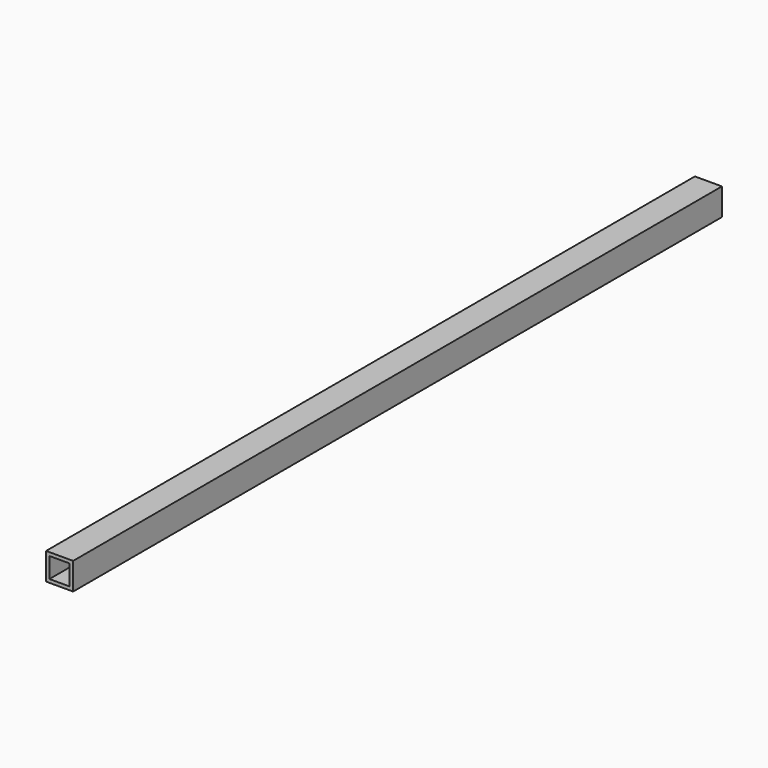
from build123d import *

# Parameters (mm, degrees)
F0_W     = 25.4
F0_H     = 25.4
F1_DEPTH = 762
F2_W     = 19.05
F2_H     = 19.05
F3_DEPTH = 45.72
F4_W     = 19.05
F4_H     = 19.05
F5_DEPTH = 45.72


with BuildPart() as f1:
    # F0 (on Front) → F1 (new body)
    with BuildSketch(Plane.XZ):
        with Locations((-0.477387, 0.30238)):
            Rectangle(F0_W, F0_H)
    extrude(amount=F1_DEPTH)

    # F2 (on face) → F3 (cut)
    with BuildSketch(Plane.XZ.offset(762)):
        with Locations((-0.477387, 0.30238)):
            Rectangle(F2_W, F2_H)
    extrude(amount=-F3_DEPTH, mode=Mode.SUBTRACT)

    # F4 (on face) → F5 (cut)
    with BuildSketch(Plane(origin=(0, 0, 0), x_dir=(-1, 0, 0), z_dir=(0, 1, 0))):
        with Locations((0.477387, 0.30238)):
            Rectangle(F4_W, F4_H)
    extrude(amount=-F5_DEPTH, mode=Mode.SUBTRACT)


solid = f1.part
